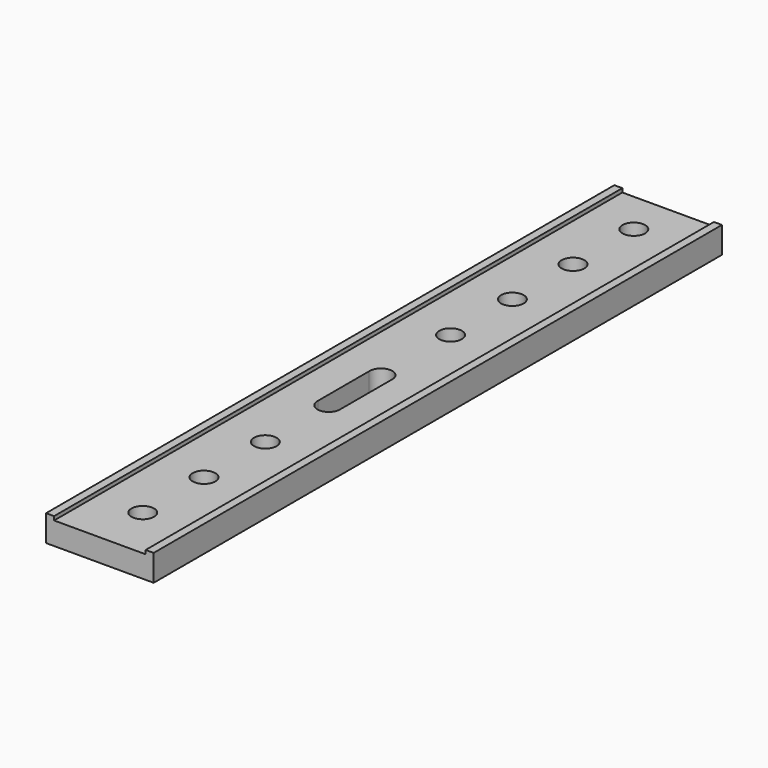
from build123d import *

# Parameters (mm, degrees)
F0_W     = 14.05
F0_H     = 92.75
F1_DEPTH = 2.94
F2_W     = 1.05
F2_H     = 92.75
F3_DEPTH = 0.5
F4_R     = 1.478073
F5_DEPTH = 2.941


with BuildPart() as f1:
    # F0 (on Top) → F1 (new body)
    with BuildSketch(Plane.XY):
        with Locations((7.025, 46.375)):
            Rectangle(F0_W, F0_H)
    extrude(amount=F1_DEPTH)

    # F2 (on face) → F3 (join)
    with BuildSketch(Plane.XY.offset(2.94)):
        with Locations((0.525, 46.375)):
            Rectangle(F2_W, F2_H)
        with Locations((13.525, 46.375)):
            Rectangle(F2_W, F2_H)
    extrude(amount=F3_DEPTH)

    # F4 (on face) → F5 (cut, through all)
    with BuildSketch(Plane.XY.offset(2.94)):
        with BuildLine():
            Line((5.546927, 45.804492), (5.546927, 37.435508))
            ThreePointArc((5.546927, 37.435508), (7.056423, 35.880334), (8.498534, 37.498191))
            Line((8.498534, 37.498191), (8.498534, 46.018191))
            ThreePointArc((8.498534, 46.018191), (6.918126, 47.356136), (5.546927, 45.804492))
        make_face()
        with Locations((7.025, 87.15)):
            Circle(F4_R)
        with Locations((7.025, 77.23)):
            Circle(F4_R)
        with Locations((7.025, 67.33)):
            Circle(F4_R)
        with Locations((7.025, 57.24)):
            Circle(F4_R)
        with Locations((7.025, 7)):
            Circle(F4_R)
        with Locations((7.025, 17)):
            Circle(F4_R)
        with Locations((7.025, 27)):
            Circle(F4_R)
    extrude(amount=-F5_DEPTH, mode=Mode.SUBTRACT)


solid = f1.part
